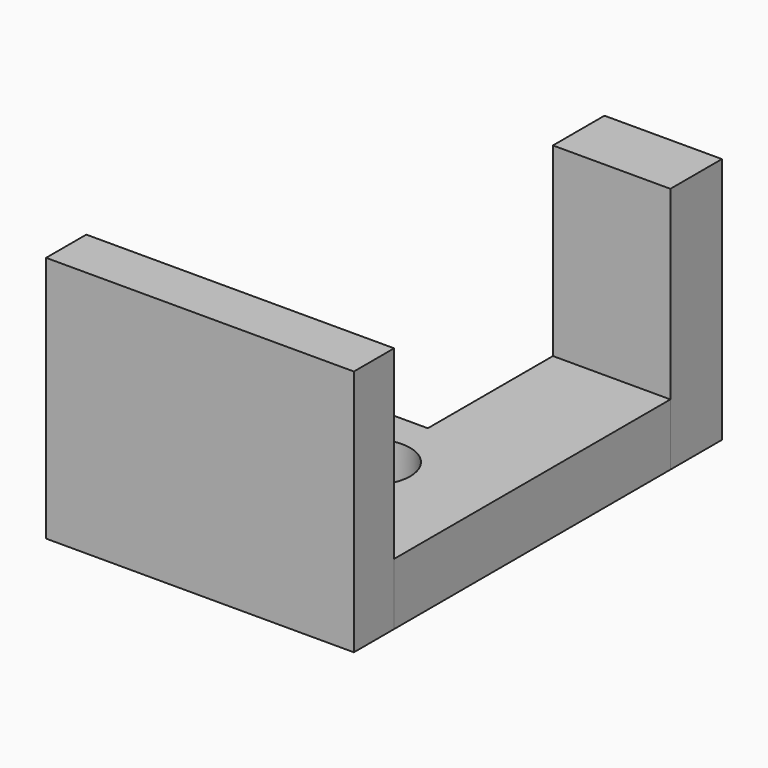
from build123d import *

# Parameters (mm, degrees)
F0_W     = 24.137096
F0_H     = 13.236284
F0_W_2   = 63.248131
F0_H_2   = 10.331848
F1_DEPTH = 50.8
F0_R     = 7.952044
F2_DEPTH = 12.7


with BuildPart() as f1:
    # F0 (on Top) → F1 (new body)
    with BuildSketch(Plane.XY):
        with Locations((29.612641, 55.957183)):
            Rectangle(F0_W, F0_H)
        with Locations((10.057123, -26.795703)):
            Rectangle(F0_W_2, F0_H_2)
    extrude(amount=F1_DEPTH)


with BuildPart() as f2:
    # F0 (on Top) → F2 (new body)
    with BuildSketch(Plane.XY):
        Polygon((17.544093, 17.206527), (-21.566942, 17.206527), (-21.566942, -21.629779), (41.681189, -21.629779), (41.681189, 49.339041), (17.544093, 49.339041), align=None)
        with Locations((-6.278621, -7.468236)):
            Circle(F0_R, mode=Mode.SUBTRACT)
        with Locations((17.81771, 2.373928)):
            Circle(F0_R, mode=Mode.SUBTRACT)
    extrude(amount=F2_DEPTH)


solid = Compound([f1.part, f2.part])
